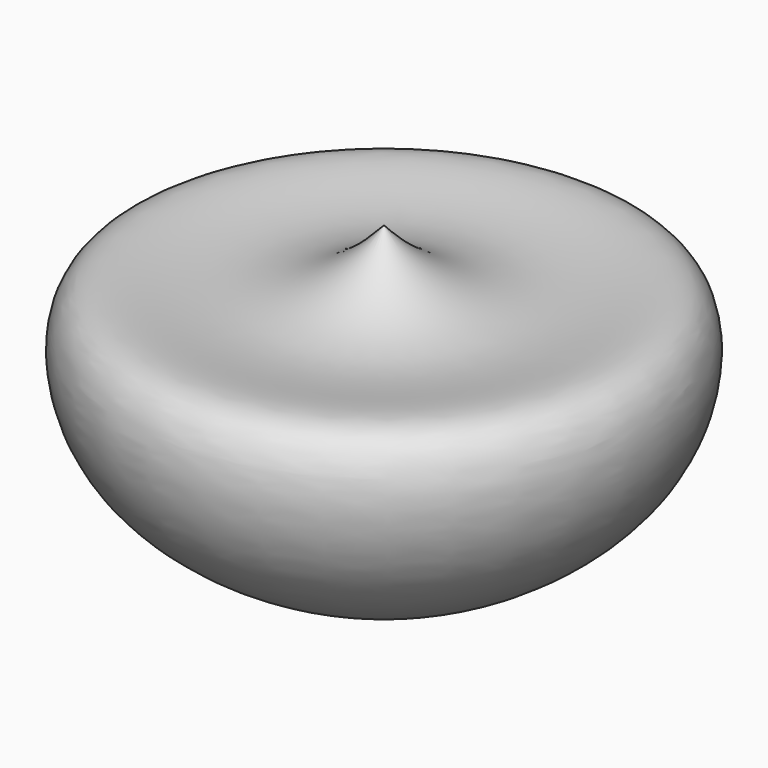
from build123d import *


with BuildPart() as f1:
    # F0 (on Front) → F1 (revolve)
    with BuildSketch(Plane.XZ):
        with BuildLine():
            Line((0, 57.8005186593), (0, 0))
            add(Edge.make_bspline(
                [(0, 0), (14.8370102044, -0.3009632598), (51.0607210112, 14.8950893463), (50.4379998018, 60.8577884502), (17.9478265345, 37.2763350606), (0, 57.8005186593)],
                knots=[0, 0, 0, 0, 0.3760211861, 0.6395365694, 1, 1, 1, 1], degree=3))
        make_face()
    revolve(axis=Axis((0, 0, 28.9002593297), (0, 0, 1)))


solid = f1.part
